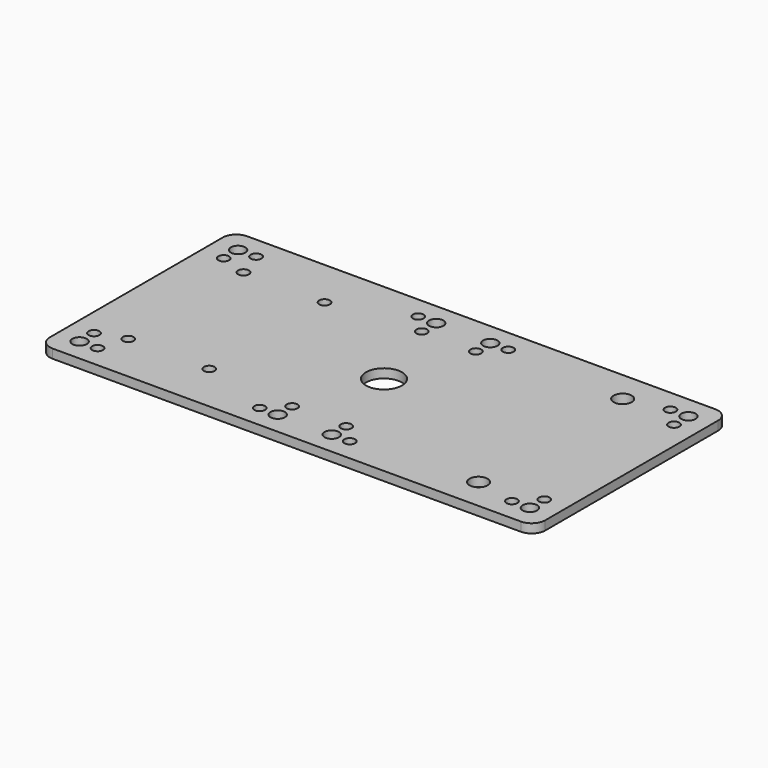
from build123d import *

# Parameters (mm, degrees)
SKETCH007_R      = 4
EXTRUDE008_DEPTH = 2
SKETCH006_R      = 1.2
EXTRUDE006_DEPTH = 2
SKETCH003_R      = 2
EXTRUDE003_DEPTH = 2
SKETCH002_R      = 1.6
SKETCH002_R_2    = 1.2
EXTRUDE002_DEPTH = 2
EXTRUDE_DEPTH    = 2


with BuildPart() as extrude008:
    # Sketch007 → Extrude008 (new body)
    with BuildSketch(Plane.XY):
        with Locations((55, 27)):
            Circle(SKETCH007_R)
    extrude(amount=EXTRUDE008_DEPTH)


with BuildPart() as extrude006:
    # Sketch006 → Extrude006 (new body)
    with BuildSketch(Plane.XY):
        with Locations((11, 11)):
            Circle(SKETCH006_R)
        with Locations((29, 11)):
            Circle(SKETCH006_R)
        with Locations((11, 43)):
            Circle(SKETCH006_R)
        with Locations((29, 43)):
            Circle(SKETCH006_R)
    extrude(amount=EXTRUDE006_DEPTH)


with BuildPart() as extrude003:
    # Sketch003 → Extrude003 (new body)
    with BuildSketch(Plane.XY):
        with Locations((92, 7)):
            Circle(SKETCH003_R)
        with Locations((92, 47)):
            Circle(SKETCH003_R)
    extrude(amount=EXTRUDE003_DEPTH)


with BuildPart() as extrude002:
    # Sketch002 → Extrude002 (new body)
    with BuildSketch(Plane.XY):
        with Locations((5, 5)):
            Circle(SKETCH002_R)
        with Locations((49, 5)):
            Circle(SKETCH002_R)
        with Locations((5, 49)):
            Circle(SKETCH002_R)
        with Locations((49, 49)):
            Circle(SKETCH002_R)
        with Locations((45, 49)):
            Circle(SKETCH002_R_2)
        with Locations((9, 49)):
            Circle(SKETCH002_R_2)
        with Locations((45, 5)):
            Circle(SKETCH002_R_2)
        with Locations((9, 5)):
            Circle(SKETCH002_R_2)
        with Locations((49, 45)):
            Circle(SKETCH002_R_2)
        with Locations((5, 45)):
            Circle(SKETCH002_R_2)
        with Locations((5, 9)):
            Circle(SKETCH002_R_2)
        with Locations((49, 9)):
            Circle(SKETCH002_R_2)
    extrude(amount=EXTRUDE002_DEPTH)


with BuildPart() as part_mirroring001:
    # Part__Mirroring001: instance of Extrude002
    add(extrude002.part.mirror(Plane(origin=(55, 0, 0), x_dir=(0, -1, 0), z_dir=(1, 0, 0))))


with BuildPart() as fusion001:
    # Fusion001 base: copy of Extrude002
    add(extrude002.part)

    # Fusion001: union Part__Mirroring001
    add(part_mirroring001.part)


with BuildPart() as cut004:
    # Sketch → Extrude (new body)
    with BuildSketch(Plane.XY):
        with BuildLine():
            Line((3, 54), (107, 54))
            ThreePointArc((110, 51), (109.12132, 53.12132), (107, 54))
            Line((110, 51), (110, 3))
            ThreePointArc((107, 0), (109.12132, 0.87868), (110, 3))
            Line((107, 0), (3, 0))
            ThreePointArc((0, 3), (0.87868, 0.87868), (3, 0))
            Line((0, 3), (0, 51))
            ThreePointArc((3, 54), (0.87868, 53.12132), (0, 51))
        make_face()
    extrude(amount=EXTRUDE_DEPTH)

    # Cut001: cut Fusion001
    add(fusion001.part, mode=Mode.SUBTRACT)

    # Cut002: cut Extrude003
    add(extrude003.part, mode=Mode.SUBTRACT)

    # Cut003: cut Extrude006
    add(extrude006.part, mode=Mode.SUBTRACT)

    # Cut004: cut Extrude008
    add(extrude008.part, mode=Mode.SUBTRACT)


solid = cut004.part
